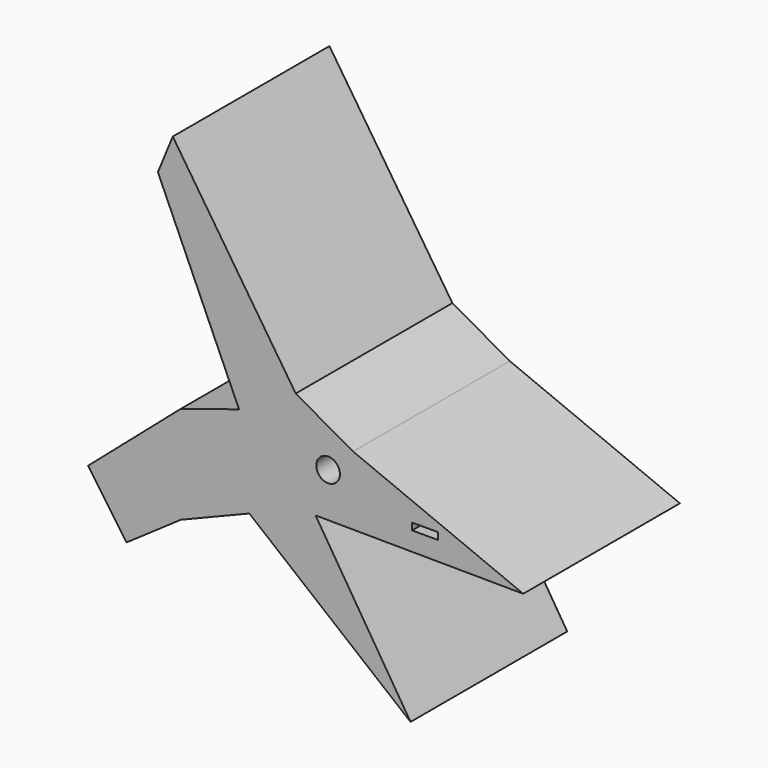
from build123d import *

# Parameters (mm, degrees)
F1_DEPTH = 50.8
F2_R     = 3.061236
F3_DEPTH = 50.8
F4_W     = 6.747894
F4_H     = 1.79878
F5_DEPTH = 50.8


with BuildPart() as f1:
    # F0 (on Front) → F1 (new body)
    with BuildSketch(Plane.XZ):
        Polygon((8.592959, 2.100501), (62.442172, 1.718592), (18.331647, 19.859284), (3.437185, 28.261289), (-28.452244, 76.572813), (-32.311786, 67.188031), (-11.266325, 19.859284), (-26.351742, 15.085418), (-50.412029, -5.72864), (-40.482387, -20.050241), (-26.351742, -10.252995), (-8.592959, -3.055275), (33.22611, -37.045203), align=None)
    extrude(amount=F1_DEPTH)

    # F2 (on face) → F3 (cut)
    with BuildSketch(Plane.XZ.offset(50.8)):
        with Locations((11.83919, 13.557781)):
            Circle(F2_R)
    extrude(amount=-F3_DEPTH, mode=Mode.SUBTRACT)

    # F4 (on face) → F5 (cut)
    with BuildSketch(Plane.XZ.offset(50.8)):
        with Locations((36.995076, 7.709399)):
            Rectangle(F4_W, F4_H)
    extrude(amount=-F5_DEPTH, mode=Mode.SUBTRACT)


solid = f1.part
